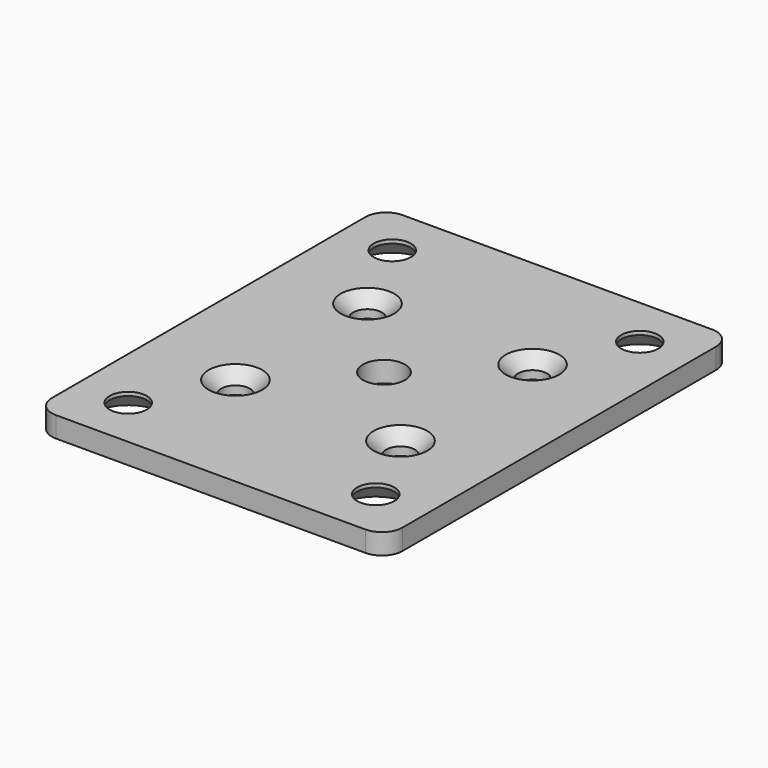
from build123d import *

# Parameters (mm, degrees)
F0_W           = 85
F0_H           = 105
F1_DEPTH       = 5
F2_R           = 5.1
F2_R_2         = 4.5
F3_DEPTH       = 5.001
F5_D           = 7
F5_CSINK_D     = 13
F5_CSINK_ANGLE = 90
F6_R           = 5
F7_SIZE        = 4.1


with BuildPart() as f1:
    # F0 (on Top) → F1 (new body)
    with BuildSketch(Plane.XY):
        Rectangle(F0_W, F0_H)
    extrude(amount=-F1_DEPTH)

    # F2 (on face) → F3 (cut, through all)
    with BuildSketch(Plane.XY):
        Circle(F2_R)
        with Locations((30, 40)):
            Circle(F2_R_2)
        with Locations((-30, 40)):
            Circle(F2_R_2)
        with Locations((-30, -40)):
            Circle(F2_R_2)
        with Locations((30, -40)):
            Circle(F2_R_2)
    extrude(amount=-F3_DEPTH, mode=Mode.SUBTRACT)

    # F5 (through all)
    with Locations(Plane.XY):
        with Locations((-20, 20), (20, 20), (20, -20), (-20, -20)):
            CounterSinkHole(F5_D / 2, F5_CSINK_D / 2, counter_sink_angle=F5_CSINK_ANGLE)

    # F6
    f6_edges = [f1.edges().sort_by_distance(p)[0] for p in [
        (-42.5, -52.5, -2.5),
        (42.5, -52.5, -2.5),
        (42.5, 52.5, -2.5),
        (-42.5, 52.5, -2.5),
    ]]
    fillet(f6_edges, radius=F6_R)

    # F7
    f7_edges = [f1.edges().sort_by_distance(p)[0] for p in [
        (25.5, 40, -5),
        (-34.5, 40, -5),
        (-34.5, -40, -5),
        (25.5, -40, -5),
    ]]
    chamfer(f7_edges, length=F7_SIZE)


solid = f1.part
